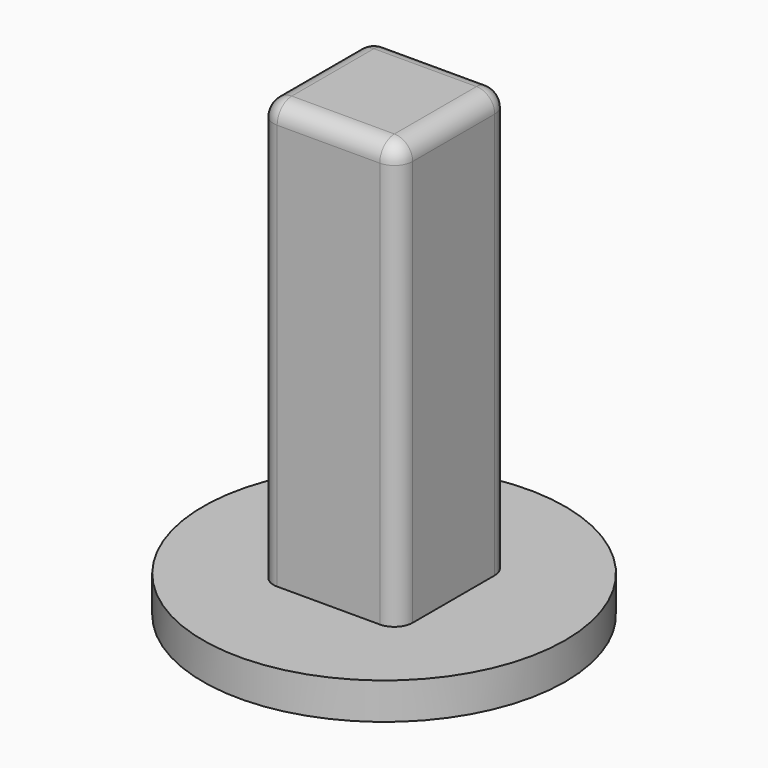
from build123d import *

# Parameters (mm, degrees)
F0_W     = 49.6
F0_H     = 10
F3_DEPTH = 116.232
F4_R     = 5


with BuildPart() as f1:
    # F0 (on Front) → F1 (revolve)
    with BuildSketch(Plane.XZ):
        with Locations((24.8, 235.9674370289)):
            Rectangle(F0_W, F0_H)
    revolve(axis=Axis((0, 0, 235.9674370289), (0, 0, 1)))

    # F2 (on face) → F3 (join)
    with BuildSketch(Plane.XY.offset(240.9674370289)):
        with BuildLine():
            ThreePointArc((19.05, 14.05), (17.5855339059, 17.5855339059), (14.05, 19.05))
            Line((14.05, 19.05), (-14.05, 19.05))
            ThreePointArc((-14.05, 19.05), (-17.5855339059, 17.5855339059), (-19.05, 14.05))
            Line((-19.05, 14.05), (-19.05, -14.05))
            ThreePointArc((-19.05, -14.05), (-17.5855339059, -17.5855339059), (-14.05, -19.05))
            Line((-14.05, -19.05), (14.05, -19.05))
            ThreePointArc((14.05, -19.05), (17.5855339059, -17.5855339059), (19.05, -14.05))
            Line((19.05, -14.05), (19.05, 14.05))
        make_face()
    extrude(amount=F3_DEPTH)

    # F4
    f4_edges = [f1.edges().sort_by_distance(p)[0] for p in [
        (0, -19.05, 357.199437),
    ]]
    fillet(f4_edges, radius=F4_R)


solid = f1.part
